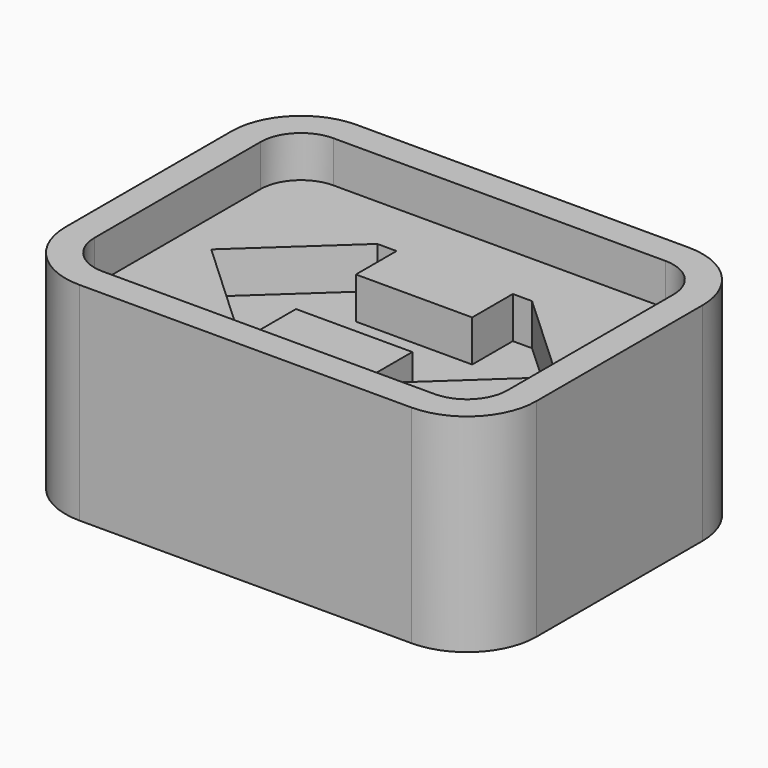
from build123d import *

# Parameters (mm, degrees)
F1_DEPTH = 5
F2_DEPTH = 4
F3_DEPTH = 3


with BuildPart() as f1:
    # F0 (on Top) → F1 (new body)
    with BuildSketch(Plane.XY):
        with BuildLine():
            Line((-4, -4.175), (4, -4.175))
            ThreePointArc((4, -4.175), (5.184404, -3.684404), (5.675, -2.5))
            Line((5.675, -2.5), (5.675, 2.5))
            ThreePointArc((5.675, 2.5), (5.184404, 3.684404), (4, 4.175))
            Line((4, 4.175), (-4, 4.175))
            ThreePointArc((-4, 4.175), (-5.184404, 3.684404), (-5.675, 2.5))
            Line((-5.675, 2.5), (-5.675, -2.5))
            ThreePointArc((-5.675, -2.5), (-5.184404, -3.684404), (-4, -4.175))
        make_face()
        with BuildLine():
            ThreePointArc((4.975, -2.5), (4.689429, -3.189429), (4, -3.475))
            Line((4, -3.475), (-4, -3.475))
            ThreePointArc((-4, -3.475), (-4.689429, -3.189429), (-4.975, -2.5))
            Line((-4.975, -2.5), (-4.975, 2.5))
            ThreePointArc((-4.975, 2.5), (-4.689429, 3.189429), (-4, 3.475))
            Line((-4, 3.475), (4, 3.475))
            ThreePointArc((4, 3.475), (4.689429, 3.189429), (4.975, 2.5))
            Line((4.975, 2.5), (4.975, -2.5))
        make_face(mode=Mode.SUBTRACT)
    extrude(amount=F1_DEPTH)

    # F0 (on Top) → F2 (join)
    with BuildSketch(Plane.XY):
        with BuildLine():
            Line((-4, -3.475), (4, -3.475))
            ThreePointArc((4, -3.475), (4.689429, -3.189429), (4.975, -2.5))
            Line((4.975, -2.5), (4.975, 2.5))
            ThreePointArc((4.975, 2.5), (4.689429, 3.189429), (4, 3.475))
            Line((4, 3.475), (-4, 3.475))
            ThreePointArc((-4, 3.475), (-4.689429, 3.189429), (-4.975, 2.5))
            Line((-4.975, 2.5), (-4.975, -2.5))
            ThreePointArc((-4.975, -2.5), (-4.689429, -3.189429), (-4, -3.475))
        make_face()
        Polygon((-1.401109, -0.899309), (-1.401059, -2.128437), (-1.864276, -2.128437), (-4.164679, 0.002819), (-1.864276, 2.128437), (-1.401059, 2.128437), (-1.401109, 0.904921), (1.401021, 0.904921), (1.401059, 2.128437), (1.864276, 2.128437), (4.164679, 0.002819), (1.864276, -2.128437), (1.401059, -2.128437), (1.40102, -0.899309), align=None, mode=Mode.SUBTRACT)
    extrude(amount=F2_DEPTH)

    # F0 (on Top) → F3 (join)
    with BuildSketch(Plane.XY):
        Polygon((-1.864276, -2.128437), (-1.401059, -2.128437), (-1.401109, -0.899309), (1.40102, -0.899309), (1.401059, -2.128437), (1.864276, -2.128437), (4.164679, 0.002819), (1.864276, 2.128437), (1.401059, 2.128437), (1.401021, 0.904921), (-1.401109, 0.904921), (-1.401059, 2.128437), (-1.864276, 2.128437), (-4.164679, 0.002819), align=None)
    extrude(amount=F3_DEPTH)


solid = f1.part
